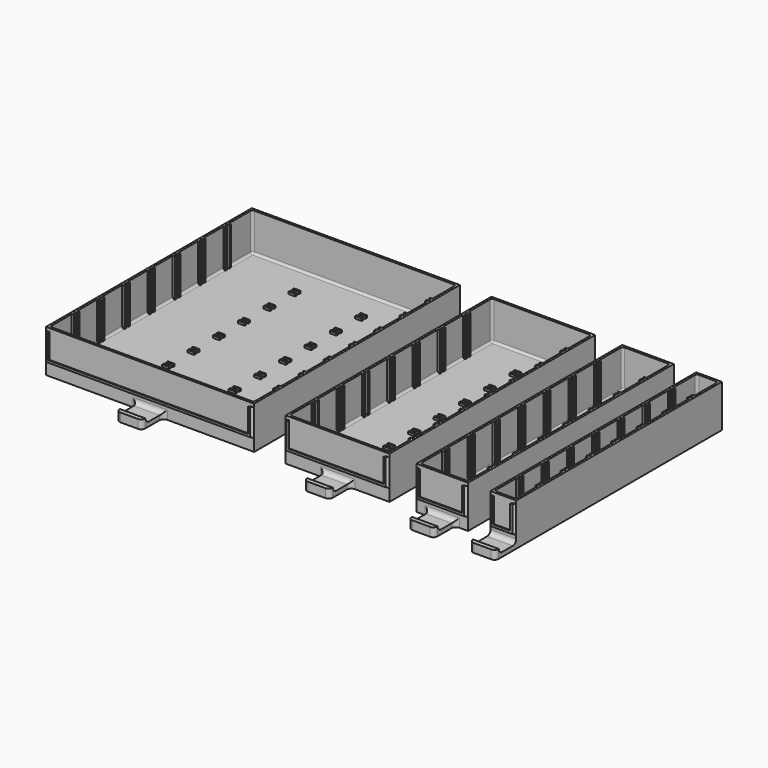
from build123d import *

# Parameters (mm, degrees)
BOX009_W         = 3
BOX009_H         = 3.2
BOX009_DEPTH     = 1
ARRAY001_X_COUNT = 2
ARRAY001_X_PITCH = 30.5
BOX008_W         = 91.5
BOX008_H         = 3.2
BOX008_DEPTH     = 17.5
BOX007_W         = 93.5
BOX007_H         = 1.2
BOX007_DEPTH     = 17.5
BOX006_W         = 93.5
BOX006_H         = 3.2
BOX006_DEPTH     = 17.5
FILLET005_R      = 1
ARRAY002_Y_COUNT = 7
ARRAY002_Y_PITCH = 14.5
BOX004_W         = 2
BOX004_H         = 110
BOX004_DEPTH     = 1
ARRAY_X_COUNT    = 8
ARRAY_X_PITCH    = 12
BOX001_W         = 93.5
BOX001_H         = 116
BOX001_DEPTH     = 18.5
FILLET_R         = 1
BOX_W            = 95.5
BOX_H            = 118
BOX_DEPTH        = 19.5
BOX013_W         = 11.8
BOX013_H         = 12
BOX013_DEPTH     = 2
BOX015_W         = 11.8
BOX015_H         = 2
BOX015_DEPTH     = 2
FILLET006_R      = 1.9
FILLET007_R      = 2
BOX012_W         = 91.5
BOX012_H         = 0.5
BOX012_DEPTH     = 11
BOX011_W         = 92.5
BOX011_H         = 0.5
BOX011_DEPTH     = 11.5
BOX010_W         = 93.5
BOX010_H         = 1
BOX010_DEPTH     = 12
FILLET008_R      = 0.9
BOX025_W         = 43.6
BOX025_H         = 0.5
BOX025_DEPTH     = 11
BOX024_W         = 44.6
BOX024_H         = 0.5
BOX024_DEPTH     = 11.5
BOX023_W         = 45.6
BOX023_H         = 1
BOX023_DEPTH     = 12
BOX027_W         = 11.8
BOX027_H         = 2
BOX027_DEPTH     = 2
BOX026_W         = 11.8
BOX026_H         = 12
BOX026_DEPTH     = 2
FILLET011_R      = 1.9
BOX018_W         = 2
BOX018_H         = 110
BOX018_DEPTH     = 1
ARRAY003_X_COUNT = 4
ARRAY003_X_PITCH = 12
BOX017_W         = 45.6
BOX017_H         = 116
BOX017_DEPTH     = 18.5
FILLET009_R      = 1
BOX016_W         = 47.6
BOX016_H         = 118
BOX016_DEPTH     = 19.5
BOX022_W         = 3
BOX022_H         = 3.2
BOX022_DEPTH     = 1
BOX021_W         = 43.6
BOX021_H         = 3.2
BOX021_DEPTH     = 17.5
BOX020_W         = 45.6
BOX020_H         = 1.2
BOX020_DEPTH     = 17.5
BOX019_W         = 45.6
BOX019_H         = 3.2
BOX019_DEPTH     = 17.5
FILLET010_R      = 1
ARRAY004_Y_COUNT = 7
ARRAY004_Y_PITCH = 14.5
FILLET012_R      = 2
FILLET013_R      = 0.9
BOX037_W         = 11.8
BOX037_H         = 12
BOX037_DEPTH     = 2
BOX014_W         = 11.8
BOX014_H         = 2
BOX014_DEPTH     = 2
FILLET016_R      = 1.9
BOX031_W         = 21.7
BOX031_H         = 1
BOX031_DEPTH     = 17.5
BOX033_W         = 19.7
BOX033_H         = 3
BOX033_DEPTH     = 17.5
BOX032_W         = 21.7
BOX032_H         = 3
BOX032_DEPTH     = 17.5
FILLET015_R      = 1
ARRAY006_Y_COUNT = 7
ARRAY006_Y_PITCH = 14.5
BOX030_W         = 2
BOX030_H         = 110
BOX030_DEPTH     = 1
ARRAY005_X_COUNT = 2
ARRAY005_X_PITCH = 12
BOX029_W         = 21.7
BOX029_H         = 116
BOX029_DEPTH     = 18.5
FILLET014_R      = 1
BOX028_W         = 23.7
BOX028_H         = 118
BOX028_DEPTH     = 19.5
FILLET017_R      = 2
BOX036_W         = 19.7
BOX036_H         = 0.5
BOX036_DEPTH     = 11
BOX035_W         = 20.7
BOX035_H         = 0.5
BOX035_DEPTH     = 11.5
BOX034_W         = 21.7
BOX034_H         = 1
BOX034_DEPTH     = 12
FILLET018_R      = 0.9
BOX043_W         = 7.8
BOX043_H         = 3
BOX043_DEPTH     = 17.5
BOX042_W         = 9.8
BOX042_H         = 1
BOX042_DEPTH     = 17.5
BOX041_W         = 9.8
BOX041_H         = 3
BOX041_DEPTH     = 17.5
FILLET020_R      = 1
ARRAY007_Y_COUNT = 7
ARRAY007_Y_PITCH = 14.5
BOX040_W         = 2
BOX040_H         = 110
BOX040_DEPTH     = 1
BOX039_W         = 9.8
BOX039_H         = 116
BOX039_DEPTH     = 17.5
FILLET019_R      = 1
BOX038_W         = 11.8
BOX038_H         = 118
BOX038_DEPTH     = 19.5
BOX047_W         = 11.8
BOX047_H         = 12
BOX047_DEPTH     = 2
BOX048_W         = 11.8
BOX048_H         = 2
BOX048_DEPTH     = 2
FILLET021_R      = 1.9
FILLET022_R      = 2
BOX046_W         = 7.8
BOX046_H         = 0.5
BOX046_DEPTH     = 11
BOX045_W         = 8.8
BOX045_H         = 0.5
BOX045_DEPTH     = 11.5
BOX044_W         = 9.8
BOX044_H         = 1
BOX044_DEPTH     = 12
FILLET023_R      = 0.9


with BuildPart() as bottom_separator_gap_array:
    # Box009 → Box009 (new body)
    with BuildSketch(Plane(origin=(31, 13.4, 2), x_dir=(1, 0, 0), z_dir=(0, 0, 1))):
        with Locations((1.5, 1.6)):
            Rectangle(BOX009_W, BOX009_H)
    extrude(amount=BOX009_DEPTH)

    # Array001 X: Bottom Separator Gap Array ×2


with BuildPart() as bottom_separator_gap_array_1:
    add(bottom_separator_gap_array.part)
    with Locations(*[(i * ARRAY001_X_PITCH, 0, 0) for i in range(1, ARRAY001_X_COUNT)]):
        add(bottom_separator_gap_array.part)


with BuildPart() as separator_holder_gap:
    # Box008 → Box008 (new body)
    with BuildSketch(Plane(origin=(2, 13.4, 2), x_dir=(1, 0, 0), z_dir=(0, 0, 1))):
        with Locations((45.75, 1.6)):
            Rectangle(BOX008_W, BOX008_H)
    extrude(amount=BOX008_DEPTH)

    # Cut005: cut Bottom Separator Gap Array
    add(bottom_separator_gap_array_1.part, mode=Mode.SUBTRACT)


with BuildPart() as separator_gap:
    # Box007 → Box007 (new body)
    with BuildSketch(Plane(origin=(1, 14.4, 2), x_dir=(1, 0, 0), z_dir=(0, 0, 1))):
        with Locations((46.75, 0.6)):
            Rectangle(BOX007_W, BOX007_H)
    extrude(amount=BOX007_DEPTH)


with BuildPart() as separator_holder_array:
    # Box006 → Box006 (new body)
    with BuildSketch(Plane(origin=(1, 13.4, 2), x_dir=(1, 0, 0), z_dir=(0, 0, 1))):
        with Locations((46.75, 1.6)):
            Rectangle(BOX006_W, BOX006_H)
    extrude(amount=BOX006_DEPTH)

    # Fillet005
    fillet005_edges = [separator_holder_array.edges().sort_by_distance(p)[0] for p in [
        (1, 15, 2),
        (94.5, 15, 2),
    ]]
    fillet(fillet005_edges, radius=FILLET005_R)

    # Cut002: cut Separator Gap
    add(separator_gap.part, mode=Mode.SUBTRACT)

    # Cut006: cut Separator Holder Gap
    add(separator_holder_gap.part, mode=Mode.SUBTRACT)

    # Array002 Y: Separator Holder Array ×7


with BuildPart() as separator_holder_array_1:
    add(separator_holder_array.part)
    with Locations(*[(0, i * ARRAY002_Y_PITCH, 0) for i in range(1, ARRAY002_Y_COUNT)]):
        add(separator_holder_array.part)


with BuildPart() as guide_array:
    # Box004 → Box004 (new body)
    with BuildSketch(Plane(origin=(0, 8, 0), x_dir=(1, 0, 0), z_dir=(0, 0, 1))):
        with Locations((1, 55)):
            Rectangle(BOX004_W, BOX004_H)
    extrude(amount=BOX004_DEPTH)

    # Array X: Guide array ×8


with BuildPart() as guide_array_1:
    add(guide_array.part)
    with Locations(*[(i * ARRAY_X_PITCH, 0, 0) for i in range(1, ARRAY_X_COUNT)]):
        add(guide_array.part)


with BuildPart() as guide_array_2:
    # Array placement: moved
    add(guide_array_1.part.moved(Location((4.75, 0, 0))))


with BuildPart() as fillet_body:
    # Box001 → Box001 (new body)
    with BuildSketch(Plane(origin=(1, 1, 2), x_dir=(1, 0, 0), z_dir=(0, 0, 1))):
        with Locations((46.75, 58)):
            Rectangle(BOX001_W, BOX001_H)
    extrude(amount=BOX001_DEPTH)

    # Fillet
    fillet_edges = [fillet_body.edges().sort_by_distance(p)[0] for p in [
        (1, 1, 11.25),
        (1, 117, 11.25),
        (1, 59, 2),
        (94.5, 1, 11.25),
        (94.5, 117, 11.25),
        (94.5, 59, 2),
        (47.75, 1, 2),
        (47.75, 117, 2),
    ]]
    fillet(fillet_edges, radius=FILLET_R)


with BuildPart() as obj1:
    # Box → Box (new body)
    with BuildSketch(Plane.XY):
        with Locations((47.75, 59)):
            Rectangle(BOX_W, BOX_H)
    extrude(amount=BOX_DEPTH)

    # Cut: cut Fillet body
    add(fillet_body.part, mode=Mode.SUBTRACT)

    # Cut004: cut Guide array
    add(guide_array_2.part, mode=Mode.SUBTRACT)

    # Fusion: union Separator Holder Array
    add(separator_holder_array_1.part)


with BuildPart() as handler_block:
    # Box013 → Box013 (new body)
    with BuildSketch(Plane(origin=(41.85, -12, 0), x_dir=(1, 0, 0), z_dir=(0, 0, 1))):
        with Locations((5.9, 6)):
            Rectangle(BOX013_W, BOX013_H)
    extrude(amount=BOX013_DEPTH)


with BuildPart() as obj2:
    # Box015 → Box015 (new body)
    with BuildSketch(Plane(origin=(41.85, -12, 2), x_dir=(1, 0, 0), z_dir=(0, 0, 1))):
        with Locations((5.9, 1)):
            Rectangle(BOX015_W, BOX015_H)
    extrude(amount=BOX015_DEPTH)

    # Fusion004: union Handler_block
    add(handler_block.part)

    # Fillet006
    fillet006_edges = [obj2.edges().sort_by_distance(p)[0] for p in [
        (41.85, -12, 3),
        (47.75, -10, 2),
        (53.65, -12, 3),
        (41.85, -12, 1),
        (53.65, -12, 1),
    ]]
    fillet(fillet006_edges, radius=FILLET006_R)

    # Fusion005: union obj1
    add(obj1.part)

    # Fillet007
    fillet007_edges = [obj2.edges().sort_by_distance(p)[0] for p in [
        (41.85, 0, 1),
        (53.65, 0, 1),
        (47.75, 0, 2),
    ]]
    fillet(fillet007_edges, radius=FILLET007_R)


with BuildPart() as labelholder_outer_gap:
    # Box012 → Box012 (new body)
    with BuildSketch(Plane(origin=(2, -1, 7), x_dir=(1, 0, 0), z_dir=(0, 0, 1))):
        with Locations((45.75, 0.25)):
            Rectangle(BOX012_W, BOX012_H)
    extrude(amount=BOX012_DEPTH)


with BuildPart() as labelholder_gap:
    # Box011 → Box011 (new body)
    with BuildSketch(Plane(origin=(1.5, -0.5, 6.5), x_dir=(1, 0, 0), z_dir=(0, 0, 1))):
        with Locations((46.25, 0.25)):
            Rectangle(BOX011_W, BOX011_H)
    extrude(amount=BOX011_DEPTH)

    # Fusion003: union LabelHolder_Outer_Gap
    add(labelholder_outer_gap.part)


with BuildPart() as bigdrawer:
    # Box010 → Box010 (new body)
    with BuildSketch(Plane(origin=(1, -1, 6), x_dir=(1, 0, 0), z_dir=(0, 0, 1))):
        with Locations((46.75, 0.5)):
            Rectangle(BOX010_W, BOX010_H)
    extrude(amount=BOX010_DEPTH)

    # Cut007: cut LabelHolder Gap
    add(labelholder_gap.part, mode=Mode.SUBTRACT)

    # Fusion006: union obj2
    add(obj2.part)

    # Fillet008
    fillet008_edges = [bigdrawer.edges().sort_by_distance(p)[0] for p in [
        (94.5, 0, 12),
        (1, 0, 12),
        (47.75, 0, 6),
    ]]
    fillet(fillet008_edges, radius=FILLET008_R)


with BuildPart() as labelholder_outer_gap001:
    # Box025 → Box025 (new body)
    with BuildSketch(Plane(origin=(2, -1, 7), x_dir=(1, 0, 0), z_dir=(0, 0, 1))):
        with Locations((21.8, 0.25)):
            Rectangle(BOX025_W, BOX025_H)
    extrude(amount=BOX025_DEPTH)


with BuildPart() as fusion007:
    # Box024 → Box024 (new body)
    with BuildSketch(Plane(origin=(1.5, -0.5, 6.5), x_dir=(1, 0, 0), z_dir=(0, 0, 1))):
        with Locations((22.3, 0.25)):
            Rectangle(BOX024_W, BOX024_H)
    extrude(amount=BOX024_DEPTH)

    # Fusion007: union LabelHolder_Outer_Gap001
    add(labelholder_outer_gap001.part)


with BuildPart() as labelholder001:
    # Box023 → Box023 (new body)
    with BuildSketch(Plane(origin=(1, -1, 6), x_dir=(1, 0, 0), z_dir=(0, 0, 1))):
        with Locations((22.8, 0.5)):
            Rectangle(BOX023_W, BOX023_H)
    extrude(amount=BOX023_DEPTH)

    # Cut013: cut Fusion007
    add(fusion007.part, mode=Mode.SUBTRACT)


with BuildPart() as handler_pick001:
    # Box027 → Box027 (new body)
    with BuildSketch(Plane(origin=(17.9, -12, 2), x_dir=(1, 0, 0), z_dir=(0, 0, 1))):
        with Locations((5.9, 1)):
            Rectangle(BOX027_W, BOX027_H)
    extrude(amount=BOX027_DEPTH)


with BuildPart() as fillet011:
    # Box026 → Box026 (new body)
    with BuildSketch(Plane(origin=(17.9, -12, 0), x_dir=(1, 0, 0), z_dir=(0, 0, 1))):
        with Locations((5.9, 6)):
            Rectangle(BOX026_W, BOX026_H)
    extrude(amount=BOX026_DEPTH)

    # Fusion009: union Handler_pick001
    add(handler_pick001.part)

    # Fillet011
    fillet011_edges = [fillet011.edges().sort_by_distance(p)[0] for p in [
        (17.9, -12, 1),
        (29.7, -12, 1),
        (17.9, -12, 3),
        (23.8, -10, 2),
        (29.7, -12, 3),
    ]]
    fillet(fillet011_edges, radius=FILLET011_R)


with BuildPart() as array003:
    # Box018 → Box018 (new body)
    with BuildSketch(Plane(origin=(4.8, 8, 0), x_dir=(1, 0, 0), z_dir=(0, 0, 1))):
        with Locations((1, 55)):
            Rectangle(BOX018_W, BOX018_H)
    extrude(amount=BOX018_DEPTH)

    # Array003 X: Array003 ×4


with BuildPart() as array003_1:
    add(array003.part)
    with Locations(*[(i * ARRAY003_X_PITCH, 0, 0) for i in range(1, ARRAY003_X_COUNT)]):
        add(array003.part)


with BuildPart() as fillet009:
    # Box017 → Box017 (new body)
    with BuildSketch(Plane(origin=(1, 1, 2), x_dir=(1, 0, 0), z_dir=(0, 0, 1))):
        with Locations((22.8, 58)):
            Rectangle(BOX017_W, BOX017_H)
    extrude(amount=BOX017_DEPTH)

    # Fillet009
    fillet009_edges = [fillet009.edges().sort_by_distance(p)[0] for p in [
        (1, 1, 11.25),
        (1, 117, 11.25),
        (1, 59, 2),
        (46.6, 1, 11.25),
        (46.6, 117, 11.25),
        (46.6, 59, 2),
        (23.8, 1, 2),
        (23.8, 117, 2),
    ]]
    fillet(fillet009_edges, radius=FILLET009_R)


with BuildPart() as obj3:
    # Box016 → Box016 (new body)
    with BuildSketch(Plane.XY):
        with Locations((23.8, 59)):
            Rectangle(BOX016_W, BOX016_H)
    extrude(amount=BOX016_DEPTH)

    # Cut008: cut Fillet009
    add(fillet009.part, mode=Mode.SUBTRACT)

    # Cut010: cut Array003
    add(array003_1.part, mode=Mode.SUBTRACT)


with BuildPart() as bottom_separator_holder_gap_block001:
    # Box022 → Box022 (new body)
    with BuildSketch(Plane(origin=(22.3, 13.4, 2), x_dir=(1, 0, 0), z_dir=(0, 0, 1))):
        with Locations((1.5, 1.6)):
            Rectangle(BOX022_W, BOX022_H)
    extrude(amount=BOX022_DEPTH)


with BuildPart() as separator_holder_gap001:
    # Box021 → Box021 (new body)
    with BuildSketch(Plane(origin=(2, 13.4, 2), x_dir=(1, 0, 0), z_dir=(0, 0, 1))):
        with Locations((21.8, 1.6)):
            Rectangle(BOX021_W, BOX021_H)
    extrude(amount=BOX021_DEPTH)

    # Cut011: cut Bottom Separator Holder Gap Block001
    add(bottom_separator_holder_gap_block001.part, mode=Mode.SUBTRACT)


with BuildPart() as separator_gap001:
    # Box020 → Box020 (new body)
    with BuildSketch(Plane(origin=(1, 14.4, 2), x_dir=(1, 0, 0), z_dir=(0, 0, 1))):
        with Locations((22.8, 0.6)):
            Rectangle(BOX020_W, BOX020_H)
    extrude(amount=BOX020_DEPTH)


with BuildPart() as standarddrawer:
    # Box019 → Box019 (new body)
    with BuildSketch(Plane(origin=(1, 13.4, 2), x_dir=(1, 0, 0), z_dir=(0, 0, 1))):
        with Locations((22.8, 1.6)):
            Rectangle(BOX019_W, BOX019_H)
    extrude(amount=BOX019_DEPTH)

    # Fillet010
    fillet010_edges = [standarddrawer.edges().sort_by_distance(p)[0] for p in [
        (1, 15, 2),
        (46.6, 15, 2),
    ]]
    fillet(fillet010_edges, radius=FILLET010_R)

    # Cut009: cut Separator Gap001
    add(separator_gap001.part, mode=Mode.SUBTRACT)

    # Cut012: cut Separator Holder Gap001
    add(separator_holder_gap001.part, mode=Mode.SUBTRACT)

    # Array004 Y: StandardDrawer ×7


with BuildPart() as standarddrawer_1:
    add(standarddrawer.part)
    with Locations(*[(0, i * ARRAY004_Y_PITCH, 0) for i in range(1, ARRAY004_Y_COUNT)]):
        add(standarddrawer.part)

    # Fusion008: union obj3
    add(obj3.part)

    # Fusion010: union Fillet011
    add(fillet011.part)

    # Fillet012
    fillet012_edges = [standarddrawer_1.edges().sort_by_distance(p)[0] for p in [
        (17.9, 0, 1),
        (23.8, 0, 2),
        (29.7, 0, 1),
    ]]
    fillet(fillet012_edges, radius=FILLET012_R)

    # Fusion011: union LabelHolder001
    add(labelholder001.part)

    # Fillet013
    fillet013_edges = [standarddrawer_1.edges().sort_by_distance(p)[0] for p in [
        (23.8, 0, 6),
        (1, 0, 12),
        (46.6, 0, 12),
    ]]
    fillet(fillet013_edges, radius=FILLET013_R)


with BuildPart() as standarddrawer_2:
    # Fillet013 placement: moved
    add(standarddrawer_1.part.moved(Location((110, 0, 0))))


with BuildPart() as handler_block002:
    # Box037 → Box037 (new body)
    with BuildSketch(Plane(origin=(5.95, -12, 0), x_dir=(1, 0, 0), z_dir=(0, 0, 1))):
        with Locations((5.9, 6)):
            Rectangle(BOX037_W, BOX037_H)
    extrude(amount=BOX037_DEPTH)


with BuildPart() as handler:
    # Box014 → Box014 (new body)
    with BuildSketch(Plane(origin=(5.95, -12, 2), x_dir=(1, 0, 0), z_dir=(0, 0, 1))):
        with Locations((5.9, 1)):
            Rectangle(BOX014_W, BOX014_H)
    extrude(amount=BOX014_DEPTH)

    # Fusion014: union Handler_block002
    add(handler_block002.part)

    # Fillet016
    fillet016_edges = [handler.edges().sort_by_distance(p)[0] for p in [
        (5.95, -12, 3),
        (11.85, -10, 2),
        (17.75, -12, 3),
        (5.95, -12, 1),
        (17.75, -12, 1),
    ]]
    fillet(fillet016_edges, radius=FILLET016_R)


with BuildPart() as separator_holder_gap002:
    # Box031 → Box031 (new body)
    with BuildSketch(Plane(origin=(1, 14.5, 2), x_dir=(1, 0, 0), z_dir=(0, 0, 1))):
        with Locations((10.85, 0.5)):
            Rectangle(BOX031_W, BOX031_H)
    extrude(amount=BOX031_DEPTH)


with BuildPart() as separator_gap002:
    # Box033 → Box033 (new body)
    with BuildSketch(Plane(origin=(2, 13.5, 2), x_dir=(1, 0, 0), z_dir=(0, 0, 1))):
        with Locations((9.85, 1.5)):
            Rectangle(BOX033_W, BOX033_H)
    extrude(amount=BOX033_DEPTH)


with BuildPart() as separator_holders_array:
    # Box032 → Box032 (new body)
    with BuildSketch(Plane(origin=(1, 13.5, 2), x_dir=(1, 0, 0), z_dir=(0, 0, 1))):
        with Locations((10.85, 1.5)):
            Rectangle(BOX032_W, BOX032_H)
    extrude(amount=BOX032_DEPTH)

    # Fillet015
    fillet015_edges = [separator_holders_array.edges().sort_by_distance(p)[0] for p in [
        (1, 15, 2),
        (22.7, 15, 2),
    ]]
    fillet(fillet015_edges, radius=FILLET015_R)

    # Cut015: cut Separator Gap002
    add(separator_gap002.part, mode=Mode.SUBTRACT)

    # Cut003: cut Separator Holder Gap002
    add(separator_holder_gap002.part, mode=Mode.SUBTRACT)

    # Array006 Y: Separator Holders Array ×7


with BuildPart() as separator_holders_array_1:
    add(separator_holders_array.part)
    with Locations(*[(0, i * ARRAY006_Y_PITCH, 0) for i in range(1, ARRAY006_Y_COUNT)]):
        add(separator_holders_array.part)


with BuildPart() as guide_array001:
    # Box030 → Box030 (new body)
    with BuildSketch(Plane(origin=(0, 8, 0), x_dir=(1, 0, 0), z_dir=(0, 0, 1))):
        with Locations((1, 55)):
            Rectangle(BOX030_W, BOX030_H)
    extrude(amount=BOX030_DEPTH)

    # Array005 X: Guide array001 ×2


with BuildPart() as guide_array001_1:
    add(guide_array001.part)
    with Locations(*[(i * ARRAY005_X_PITCH, 0, 0) for i in range(1, ARRAY005_X_COUNT)]):
        add(guide_array001.part)


with BuildPart() as guide_array001_2:
    # Array005 placement: moved
    add(guide_array001_1.part.moved(Location((4.85, 0, 0))))


with BuildPart() as filleted_inner_box:
    # Box029 → Box029 (new body)
    with BuildSketch(Plane(origin=(1, 1, 2), x_dir=(1, 0, 0), z_dir=(0, 0, 1))):
        with Locations((10.85, 58)):
            Rectangle(BOX029_W, BOX029_H)
    extrude(amount=BOX029_DEPTH)

    # Fillet014
    fillet014_edges = [filleted_inner_box.edges().sort_by_distance(p)[0] for p in [
        (1, 1, 11.25),
        (1, 117, 11.25),
        (1, 59, 2),
        (22.7, 1, 11.25),
        (22.7, 117, 11.25),
        (22.7, 59, 2),
        (11.85, 1, 2),
        (11.85, 117, 2),
    ]]
    fillet(fillet014_edges, radius=FILLET014_R)


with BuildPart() as obj4:
    # Box028 → Box028 (new body)
    with BuildSketch(Plane.XY):
        with Locations((11.85, 59)):
            Rectangle(BOX028_W, BOX028_H)
    extrude(amount=BOX028_DEPTH)

    # Cut014: cut Filleted Inner Box
    add(filleted_inner_box.part, mode=Mode.SUBTRACT)

    # Cut016: cut Guide array001
    add(guide_array001_2.part, mode=Mode.SUBTRACT)

    # Fusion013: union Separator Holders Array
    add(separator_holders_array_1.part)

    # Fusion015: union Handler
    add(handler.part)

    # Fillet017
    fillet017_edges = [obj4.edges().sort_by_distance(p)[0] for p in [
        (5.95, 0, 1),
        (11.85, 0, 2),
        (17.75, 0, 1),
    ]]
    fillet(fillet017_edges, radius=FILLET017_R)


with BuildPart() as labelholder_outer_gap002:
    # Box036 → Box036 (new body)
    with BuildSketch(Plane(origin=(2, -1, 7), x_dir=(1, 0, 0), z_dir=(0, 0, 1))):
        with Locations((9.85, 0.25)):
            Rectangle(BOX036_W, BOX036_H)
    extrude(amount=BOX036_DEPTH)


with BuildPart() as labelholder_gap001:
    # Box035 → Box035 (new body)
    with BuildSketch(Plane(origin=(1.5, -0.5, 6.5), x_dir=(1, 0, 0), z_dir=(0, 0, 1))):
        with Locations((10.35, 0.25)):
            Rectangle(BOX035_W, BOX035_H)
    extrude(amount=BOX035_DEPTH)

    # Fusion012: union LabelHolder_Outer_Gap002
    add(labelholder_outer_gap002.part)


with BuildPart() as smalldrawer:
    # Box034 → Box034 (new body)
    with BuildSketch(Plane(origin=(1, -1, 6), x_dir=(1, 0, 0), z_dir=(0, 0, 1))):
        with Locations((10.85, 0.5)):
            Rectangle(BOX034_W, BOX034_H)
    extrude(amount=BOX034_DEPTH)

    # Cut017: cut LabelHolder_Gap001
    add(labelholder_gap001.part, mode=Mode.SUBTRACT)

    # Fusion016: union obj4
    add(obj4.part)

    # Fillet018
    fillet018_edges = [smalldrawer.edges().sort_by_distance(p)[0] for p in [
        (22.7, 0, 12),
        (1, 0, 12),
        (11.85, 0, 6),
    ]]
    fillet(fillet018_edges, radius=FILLET018_R)


with BuildPart() as smalldrawer_1:
    # Fillet018 placement: moved
    add(smalldrawer.part.moved(Location((170, 0, 0))))


with BuildPart() as separator_holder_gap003:
    # Box043 → Box043 (new body)
    with BuildSketch(Plane(origin=(1, 0, 0), x_dir=(1, 0, 0), z_dir=(0, 0, 1))):
        with Locations((3.9, 1.5)):
            Rectangle(BOX043_W, BOX043_H)
    extrude(amount=BOX043_DEPTH)


with BuildPart() as separator_gap003:
    # Box042 → Box042 (new body)
    with BuildSketch(Plane(origin=(0, 1, 0), x_dir=(1, 0, 0), z_dir=(0, 0, 1))):
        with Locations((4.9, 0.5)):
            Rectangle(BOX042_W, BOX042_H)
    extrude(amount=BOX042_DEPTH)


with BuildPart() as separator_holder_array002:
    # Box041 → Box041 (new body)
    with BuildSketch(Plane.XY):
        with Locations((4.9, 1.5)):
            Rectangle(BOX041_W, BOX041_H)
    extrude(amount=BOX041_DEPTH)

    # Fillet020
    fillet020_edges = [separator_holder_array002.edges().sort_by_distance(p)[0] for p in [
        (0, 1.5, 0),
        (9.8, 1.5, 0),
    ]]
    fillet(fillet020_edges, radius=FILLET020_R)

    # Cut019: cut Separator Gap003
    add(separator_gap003.part, mode=Mode.SUBTRACT)

    # Cut020: cut Separator Holder Gap003
    add(separator_holder_gap003.part, mode=Mode.SUBTRACT)

    # Array007 Y: Separator Holder Array002 ×7


with BuildPart() as separator_holder_array002_1:
    add(separator_holder_array002.part)
    with Locations(*[(0, i * ARRAY007_Y_PITCH, 0) for i in range(1, ARRAY007_Y_COUNT)]):
        add(separator_holder_array002.part)


with BuildPart() as separator_holder_array002_2:
    # Array007 placement: moved
    add(separator_holder_array002_1.part.moved(Location((1, 13.5, 2))))


with BuildPart() as guide003:
    # Box040 → Box040 (new body)
    with BuildSketch(Plane(origin=(4.9, 8, 0), x_dir=(1, 0, 0), z_dir=(0, 0, 1))):
        with Locations((1, 55)):
            Rectangle(BOX040_W, BOX040_H)
    extrude(amount=BOX040_DEPTH)


with BuildPart() as fillet019:
    # Box039 → Box039 (new body)
    with BuildSketch(Plane(origin=(1, 1, 2), x_dir=(1, 0, 0), z_dir=(0, 0, 1))):
        with Locations((4.9, 58)):
            Rectangle(BOX039_W, BOX039_H)
    extrude(amount=BOX039_DEPTH)

    # Fillet019
    fillet019_edges = [fillet019.edges().sort_by_distance(p)[0] for p in [
        (1, 1, 10.75),
        (1, 117, 10.75),
        (1, 59, 2),
        (10.8, 1, 10.75),
        (10.8, 117, 10.75),
        (10.8, 59, 2),
        (5.9, 1, 2),
        (5.9, 117, 2),
    ]]
    fillet(fillet019_edges, radius=FILLET019_R)


with BuildPart() as obj5:
    # Box038 → Box038 (new body)
    with BuildSketch(Plane.XY):
        with Locations((5.9, 59)):
            Rectangle(BOX038_W, BOX038_H)
    extrude(amount=BOX038_DEPTH)

    # Cut018: cut Fillet019
    add(fillet019.part, mode=Mode.SUBTRACT)

    # Cut021: cut Guide003
    add(guide003.part, mode=Mode.SUBTRACT)

    # Fusion017: union Separator Holder Array002
    add(separator_holder_array002_2.part)


with BuildPart() as handlerblock:
    # Box047 → Box047 (new body)
    with BuildSketch(Plane(origin=(0, -12, 0), x_dir=(1, 0, 0), z_dir=(0, 0, 1))):
        with Locations((5.9, 6)):
            Rectangle(BOX047_W, BOX047_H)
    extrude(amount=BOX047_DEPTH)


with BuildPart() as fillet022:
    # Box048 → Box048 (new body)
    with BuildSketch(Plane(origin=(0, -12, 2), x_dir=(1, 0, 0), z_dir=(0, 0, 1))):
        with Locations((5.9, 1)):
            Rectangle(BOX048_W, BOX048_H)
    extrude(amount=BOX048_DEPTH)

    # Fusion001: union HandlerBlock
    add(handlerblock.part)

    # Fillet021
    fillet021_edges = [fillet022.edges().sort_by_distance(p)[0] for p in [
        (0, -12, 3),
        (5.9, -10, 2),
        (11.8, -12, 3),
        (0, -12, 1),
        (11.8, -12, 1),
    ]]
    fillet(fillet021_edges, radius=FILLET021_R)

    # Fusion002: union obj5
    add(obj5.part)

    # Fillet022
    fillet022_edges = [fillet022.edges().sort_by_distance(p)[0] for p in [
        (5.9, 0, 2),
    ]]
    fillet(fillet022_edges, radius=FILLET022_R)


with BuildPart() as box046:
    # Box046 → Box046 (new body)
    with BuildSketch(Plane(origin=(2, -1, 7), x_dir=(1, 0, 0), z_dir=(0, 0, 1))):
        with Locations((3.9, 0.25)):
            Rectangle(BOX046_W, BOX046_H)
    extrude(amount=BOX046_DEPTH)


with BuildPart() as labelholder_inner_gap:
    # Box045 → Box045 (new body)
    with BuildSketch(Plane(origin=(1.5, -0.5, 6.5), x_dir=(1, 0, 0), z_dir=(0, 0, 1))):
        with Locations((4.4, 0.25)):
            Rectangle(BOX045_W, BOX045_H)
    extrude(amount=BOX045_DEPTH)


with BuildPart() as tinydrawer:
    # Box044 → Box044 (new body)
    with BuildSketch(Plane(origin=(1, -1, 6), x_dir=(1, 0, 0), z_dir=(0, 0, 1))):
        with Locations((4.9, 0.5)):
            Rectangle(BOX044_W, BOX044_H)
    extrude(amount=BOX044_DEPTH)

    # Cut022: cut labelholder_inner_gap
    add(labelholder_inner_gap.part, mode=Mode.SUBTRACT)

    # Cut023: cut Box046
    add(box046.part, mode=Mode.SUBTRACT)

    # Fusion018: union Fillet022
    add(fillet022.part)

    # Fillet023
    fillet023_edges = [tinydrawer.edges().sort_by_distance(p)[0] for p in [
        (10.8, 0, 12),
        (1, 0, 12),
        (5.9, 0, 6),
    ]]
    fillet(fillet023_edges, radius=FILLET023_R)


with BuildPart() as tinydrawer_1:
    # Fillet023 placement: moved
    add(tinydrawer.part.moved(Location((204, 0, 0))))


solid = Compound([bigdrawer.part, standarddrawer_2.part, smalldrawer_1.part, tinydrawer_1.part])
